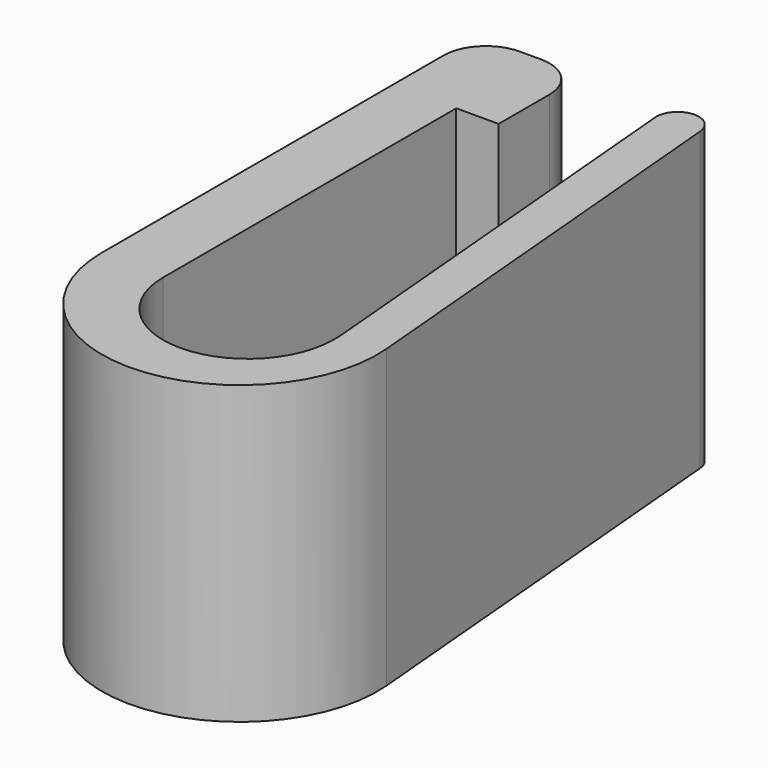
from build123d import *

# Parameters (mm, degrees)
F1_DEPTH = 14
F2_ANGLE = 270


with BuildPart() as f1:
    # F0 (on Top) → F1 (new body)
    with BuildSketch(Plane.XY):
        with BuildLine():
            Line((0, 2), (0, 0))
            Line((0, 0), (3, 0))
            ThreePointArc((3, 0), (4.4142135624, 0.5857864376), (5, 2))
            Line((5, 2), (5, 3))
            ThreePointArc((5, 3), (4.4142135624, 4.4142135624), (3, 5))
            Line((3, 5), (-17.1685416299, 5))
            ThreePointArc((-17.1685416299, 5), (-23.6709251563, -1.7924784466), (-16.6012816583, -7.9923893962))
            Line((-16.6012816583, -7.9923893962), (4.1781167874, -6.1744275973))
            ThreePointArc((4.1781167874, -6.1744275973), (4.8570054878, -5.8210205089), (5.0871557427, -5.0910771565))
            ThreePointArc((5.0871557427, -5.0910771565), (4.7337486543, -4.4121884561), (4.0038053019, -4.1820382011))
            Line((4.0038053019, -4.1820382011), (-16.7755931438, -6))
            ThreePointArc((-16.7755931438, -6), (-17.5585332536, -6.0002577112), (-18.3297126631, -5.8650630349))
            ThreePointArc((-18.3297126631, -5.8650630349), (-21.265646755, -1.4805060826), (-17.2995244587, 2))
            Line((-17.2995244587, 2), (0, 2))
        make_face()
    extrude(amount=F1_DEPTH)


with BuildPart() as f1_1:
    # F2: moved
    add(f1.part.rotate(Axis((-17.2995244587, 2, 7), (0, 0, -1)), F2_ANGLE))


solid = f1_1.part
